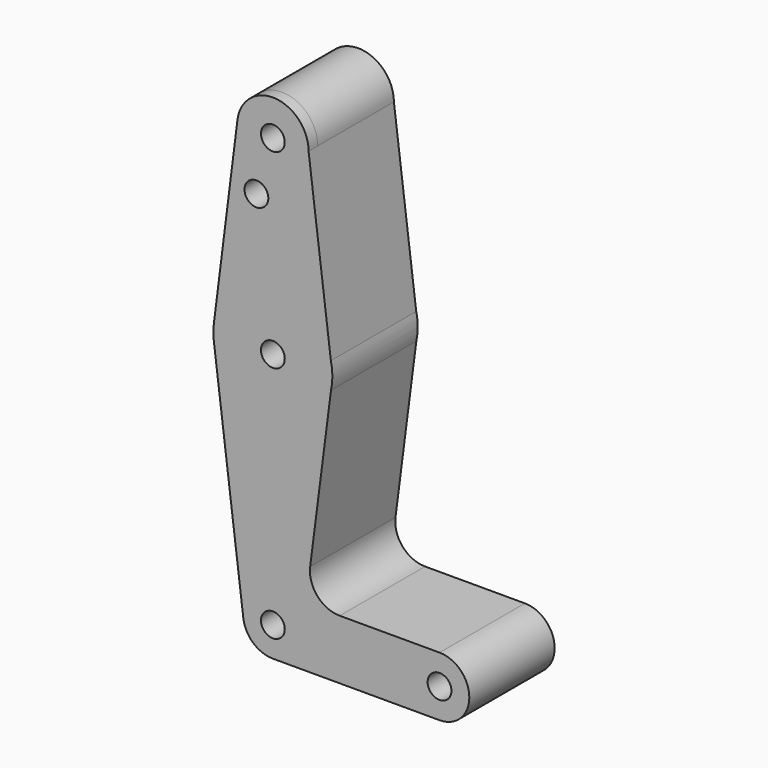
from build123d import *

# Parameters (mm, degrees)
F0_R        = 3.1712374005
F0_R_2      = 3.175
F1_DEPTH    = 3.048
F2_DEPTH    = 3.048
F3_DEPTH    = 3.048
F1_FACE_R   = 3.1712374005
F1_FACE_R_2 = 3.175
F4_DEPTH    = 25.4


with BuildPart() as f1:
    # F0 (on Front) → F1 (new body)
    with BuildSketch(Plane.XZ):
        with BuildLine():
            ThreePointArc((-9.4917820271, 59.0115925485), (-0.3977443851, 48.7001057545), (9.525, 58.2167976379))
            ThreePointArc((9.525, 58.2167976379), (0.7965401292, 67.7084333675), (-9.3917766557, 59.8042976379))
            Line((-9.3917766557, 59.8042976379), (-9.4917820271, 59.0115925485))
        make_face()
        with Locations((0, 58.2167976379)):
            Circle(F0_R, mode=Mode.SUBTRACT)
        with BuildLine():
            Line((15.4734514542, 10.9647442403), (9.525, 58.2167976379))
            ThreePointArc((9.525, 58.2167976379), (-0.3977443851, 48.7001057545), (-9.4917820271, 59.0115925485))
            Line((-9.4917820271, 59.0115925485), (-15.7501580655, 9.4037918285))
            ThreePointArc((-15.7501580655, 9.4037918285), (-0.7926441479, 23.2719967933), (15.4734514542, 10.9647442403))
        make_face()
        with Locations((-4.3875967011, 43.6775095756)):
            Circle(F0_R_2, mode=Mode.SUBTRACT)
        with BuildLine():
            Line((-9.4917820271, 59.0115925485), (-9.3917766557, 59.8042976379))
            ThreePointArc((-9.3917766557, 59.8042976379), (-9.4500948393, 59.4089941523), (-9.4917820271, 59.0115925485))
        make_face()
        with BuildLine():
            Line((15.8700148845, 7.8146073471), (15.4734514542, 10.9647442403))
            ThreePointArc((15.4734514542, 10.9647442403), (-0.7926441479, 23.2719967933), (-15.7501580655, 9.4037918285))
            ThreePointArc((-15.7501580655, 9.4037918285), (-15.8730177398, 7.6676618089), (-15.8050828508, 5.9285163879))
            Line((-15.8050828508, 5.9285163879), (-15.6809380298, 4.942164836))
            ThreePointArc((-15.6809380298, 4.942164836), (-0.466737478, -8.4513396543), (15.5083792346, 4.0247778098))
            ThreePointArc((15.5083792346, 4.0247778098), (15.7830786818, 5.7109100903), (15.875, 7.4167976379))
            ThreePointArc((15.875, 7.4167976379), (15.8737536722, 7.6157181095), (15.8700148845, 7.8146073471))
        make_face()
        with Locations((0, 7.4167976379)):
            Circle(F0_R_2, mode=Mode.SUBTRACT)
        with BuildLine():
            ThreePointArc((15.8700148845, 7.8146073471), (15.7506844659, 9.3996147894), (15.4734514542, 10.9647442403))
            Line((15.4734514542, 10.9647442403), (15.8700148845, 7.8146073471))
        make_face()
        with BuildLine():
            Line((-15.6809380298, 4.942164836), (-15.8050828508, 5.9285163879))
            ThreePointArc((-15.8050828508, 5.9285163879), (-15.7507333185, 5.43436859), (-15.6809380298, 4.942164836))
        make_face()
        with BuildLine():
            ThreePointArc((15.5083792346, 4.0247778098), (-0.466737478, -8.4513396543), (-15.6809380298, 4.942164836))
            Line((-15.6809380298, 4.942164836), (-7.8753666592, -57.074416886))
            ThreePointArc((-7.8753666592, -57.074416886), (-0.4965799997, -48.1612509261), (7.9375, -56.0832023621))
            ThreePointArc((7.9375, -56.0832023621), (5.6126600757, -61.6958624377), (0, -64.0207023621))
            Line((0, -64.0207023621), (44.45, -64.0207023621))
            ThreePointArc((44.45, -64.0207023621), (36.5125, -56.0832023621), (44.45, -48.1457023621))
            Line((44.45, -48.1457023621), (17.8308056521, -48.1457023621))
            ThreePointArc((17.8308056521, -48.1457023621), (11.8610133248, -45.4459556386), (9.9456918977, -39.1802875471))
            Line((9.9456918977, -39.1802875471), (15.5083792346, 4.0247778098))
        make_face()
        with BuildLine():
            ThreePointArc((7.9375, -56.0832023621), (-0.4965799997, -48.1612509261), (-7.8753666592, -57.074416886))
            ThreePointArc((-7.8753666592, -57.074416886), (-5.2505304954, -62.0360030279), (0, -64.0207023621))
            ThreePointArc((0, -64.0207023621), (5.6126600757, -61.6958624377), (7.9375, -56.0832023621))
        make_face()
        with Locations((0, -56.0832023621)):
            Circle(F0_R_2, mode=Mode.SUBTRACT)
        with BuildLine():
            ThreePointArc((44.45, -48.1457023621), (36.5125, -56.0832023621), (44.45, -64.0207023621))
            ThreePointArc((44.45, -64.0207023621), (50.0626600757, -61.6958624377), (52.3875, -56.0832023621))
            ThreePointArc((52.3875, -56.0832023621), (50.0626600757, -50.4705422864), (44.45, -48.1457023621))
        make_face()
        with Locations((44.45, -56.0832023621)):
            Circle(F0_R_2, mode=Mode.SUBTRACT)
    extrude(amount=F1_DEPTH)

    # F0 (on Front) → F2 (join)
    with BuildSketch(Plane.XZ):
        with BuildLine():
            ThreePointArc((-9.4917820271, 59.0115925485), (-0.3977443851, 48.7001057545), (9.525, 58.2167976379))
            ThreePointArc((9.525, 58.2167976379), (0.7965401292, 67.7084333675), (-9.3917766557, 59.8042976379))
            Line((-9.3917766557, 59.8042976379), (-9.4917820271, 59.0115925485))
        make_face()
        with Locations((0, 58.2167976379)):
            Circle(F0_R, mode=Mode.SUBTRACT)
        with BuildLine():
            Line((15.4734514542, 10.9647442403), (9.525, 58.2167976379))
            ThreePointArc((9.525, 58.2167976379), (-0.3977443851, 48.7001057545), (-9.4917820271, 59.0115925485))
            Line((-9.4917820271, 59.0115925485), (-15.7501580655, 9.4037918285))
            ThreePointArc((-15.7501580655, 9.4037918285), (-0.7926441479, 23.2719967933), (15.4734514542, 10.9647442403))
        make_face()
        with Locations((-4.3875967011, 43.6775095756)):
            Circle(F0_R_2, mode=Mode.SUBTRACT)
        with BuildLine():
            Line((-9.4917820271, 59.0115925485), (-9.3917766557, 59.8042976379))
            ThreePointArc((-9.3917766557, 59.8042976379), (-9.4500948393, 59.4089941523), (-9.4917820271, 59.0115925485))
        make_face()
        with BuildLine():
            Line((15.8700148845, 7.8146073471), (15.4734514542, 10.9647442403))
            ThreePointArc((15.4734514542, 10.9647442403), (-0.7926441479, 23.2719967933), (-15.7501580655, 9.4037918285))
            ThreePointArc((-15.7501580655, 9.4037918285), (-15.8730177398, 7.6676618089), (-15.8050828508, 5.9285163879))
            Line((-15.8050828508, 5.9285163879), (-15.6809380298, 4.942164836))
            ThreePointArc((-15.6809380298, 4.942164836), (-0.466737478, -8.4513396543), (15.5083792346, 4.0247778098))
            ThreePointArc((15.5083792346, 4.0247778098), (15.7830786818, 5.7109100903), (15.875, 7.4167976379))
            ThreePointArc((15.875, 7.4167976379), (15.8737536722, 7.6157181095), (15.8700148845, 7.8146073471))
        make_face()
        with Locations((0, 7.4167976379)):
            Circle(F0_R_2, mode=Mode.SUBTRACT)
        with BuildLine():
            ThreePointArc((15.8700148845, 7.8146073471), (15.7506844659, 9.3996147894), (15.4734514542, 10.9647442403))
            Line((15.4734514542, 10.9647442403), (15.8700148845, 7.8146073471))
        make_face()
        with BuildLine():
            Line((-15.6809380298, 4.942164836), (-15.8050828508, 5.9285163879))
            ThreePointArc((-15.8050828508, 5.9285163879), (-15.7507333185, 5.43436859), (-15.6809380298, 4.942164836))
        make_face()
        with BuildLine():
            ThreePointArc((15.5083792346, 4.0247778098), (-0.466737478, -8.4513396543), (-15.6809380298, 4.942164836))
            Line((-15.6809380298, 4.942164836), (-7.8753666592, -57.074416886))
            ThreePointArc((-7.8753666592, -57.074416886), (-0.4965799997, -48.1612509261), (7.9375, -56.0832023621))
            ThreePointArc((7.9375, -56.0832023621), (5.6126600757, -61.6958624377), (0, -64.0207023621))
            Line((0, -64.0207023621), (44.45, -64.0207023621))
            ThreePointArc((44.45, -64.0207023621), (36.5125, -56.0832023621), (44.45, -48.1457023621))
            Line((44.45, -48.1457023621), (17.8308056521, -48.1457023621))
            ThreePointArc((17.8308056521, -48.1457023621), (11.8610133248, -45.4459556386), (9.9456918977, -39.1802875471))
            Line((9.9456918977, -39.1802875471), (15.5083792346, 4.0247778098))
        make_face()
        with BuildLine():
            ThreePointArc((7.9375, -56.0832023621), (-0.4965799997, -48.1612509261), (-7.8753666592, -57.074416886))
            ThreePointArc((-7.8753666592, -57.074416886), (-5.2505304954, -62.0360030279), (0, -64.0207023621))
            ThreePointArc((0, -64.0207023621), (5.6126600757, -61.6958624377), (7.9375, -56.0832023621))
        make_face()
        with Locations((0, -56.0832023621)):
            Circle(F0_R_2, mode=Mode.SUBTRACT)
        with BuildLine():
            ThreePointArc((44.45, -48.1457023621), (36.5125, -56.0832023621), (44.45, -64.0207023621))
            ThreePointArc((44.45, -64.0207023621), (50.0626600757, -61.6958624377), (52.3875, -56.0832023621))
            ThreePointArc((52.3875, -56.0832023621), (50.0626600757, -50.4705422864), (44.45, -48.1457023621))
        make_face()
        with Locations((44.45, -56.0832023621)):
            Circle(F0_R_2, mode=Mode.SUBTRACT)
    extrude(amount=F2_DEPTH)

    # F0 (on Front) → F3 (join)
    with BuildSketch(Plane.XZ):
        with BuildLine():
            ThreePointArc((-9.4917820271, 59.0115925485), (-0.3977443851, 48.7001057545), (9.525, 58.2167976379))
            ThreePointArc((9.525, 58.2167976379), (0.7965401292, 67.7084333675), (-9.3917766557, 59.8042976379))
            Line((-9.3917766557, 59.8042976379), (-9.4917820271, 59.0115925485))
        make_face()
        with Locations((0, 58.2167976379)):
            Circle(F0_R, mode=Mode.SUBTRACT)
        with BuildLine():
            Line((15.4734514542, 10.9647442403), (9.525, 58.2167976379))
            ThreePointArc((9.525, 58.2167976379), (-0.3977443851, 48.7001057545), (-9.4917820271, 59.0115925485))
            Line((-9.4917820271, 59.0115925485), (-15.7501580655, 9.4037918285))
            ThreePointArc((-15.7501580655, 9.4037918285), (-0.7926441479, 23.2719967933), (15.4734514542, 10.9647442403))
        make_face()
        with Locations((-4.3875967011, 43.6775095756)):
            Circle(F0_R_2, mode=Mode.SUBTRACT)
        with BuildLine():
            Line((-9.4917820271, 59.0115925485), (-9.3917766557, 59.8042976379))
            ThreePointArc((-9.3917766557, 59.8042976379), (-9.4500948393, 59.4089941523), (-9.4917820271, 59.0115925485))
        make_face()
        with BuildLine():
            Line((15.8700148845, 7.8146073471), (15.4734514542, 10.9647442403))
            ThreePointArc((15.4734514542, 10.9647442403), (-0.7926441479, 23.2719967933), (-15.7501580655, 9.4037918285))
            ThreePointArc((-15.7501580655, 9.4037918285), (-15.8730177398, 7.6676618089), (-15.8050828508, 5.9285163879))
            Line((-15.8050828508, 5.9285163879), (-15.6809380298, 4.942164836))
            ThreePointArc((-15.6809380298, 4.942164836), (-0.466737478, -8.4513396543), (15.5083792346, 4.0247778098))
            ThreePointArc((15.5083792346, 4.0247778098), (15.7830786818, 5.7109100903), (15.875, 7.4167976379))
            ThreePointArc((15.875, 7.4167976379), (15.8737536722, 7.6157181095), (15.8700148845, 7.8146073471))
        make_face()
        with Locations((0, 7.4167976379)):
            Circle(F0_R_2, mode=Mode.SUBTRACT)
        with BuildLine():
            ThreePointArc((15.8700148845, 7.8146073471), (15.7506844659, 9.3996147894), (15.4734514542, 10.9647442403))
            Line((15.4734514542, 10.9647442403), (15.8700148845, 7.8146073471))
        make_face()
        with BuildLine():
            Line((-15.6809380298, 4.942164836), (-15.8050828508, 5.9285163879))
            ThreePointArc((-15.8050828508, 5.9285163879), (-15.7507333185, 5.43436859), (-15.6809380298, 4.942164836))
        make_face()
        with BuildLine():
            ThreePointArc((15.5083792346, 4.0247778098), (-0.466737478, -8.4513396543), (-15.6809380298, 4.942164836))
            Line((-15.6809380298, 4.942164836), (-7.8753666592, -57.074416886))
            ThreePointArc((-7.8753666592, -57.074416886), (-0.4965799997, -48.1612509261), (7.9375, -56.0832023621))
            ThreePointArc((7.9375, -56.0832023621), (5.6126600757, -61.6958624377), (0, -64.0207023621))
            Line((0, -64.0207023621), (44.45, -64.0207023621))
            ThreePointArc((44.45, -64.0207023621), (36.5125, -56.0832023621), (44.45, -48.1457023621))
            Line((44.45, -48.1457023621), (17.8308056521, -48.1457023621))
            ThreePointArc((17.8308056521, -48.1457023621), (11.8610133248, -45.4459556386), (9.9456918977, -39.1802875471))
            Line((9.9456918977, -39.1802875471), (15.5083792346, 4.0247778098))
        make_face()
        with BuildLine():
            ThreePointArc((7.9375, -56.0832023621), (-0.4965799997, -48.1612509261), (-7.8753666592, -57.074416886))
            ThreePointArc((-7.8753666592, -57.074416886), (-5.2505304954, -62.0360030279), (0, -64.0207023621))
            ThreePointArc((0, -64.0207023621), (5.6126600757, -61.6958624377), (7.9375, -56.0832023621))
        make_face()
        with Locations((0, -56.0832023621)):
            Circle(F0_R_2, mode=Mode.SUBTRACT)
        with BuildLine():
            ThreePointArc((44.45, -48.1457023621), (36.5125, -56.0832023621), (44.45, -64.0207023621))
            ThreePointArc((44.45, -64.0207023621), (50.0626600757, -61.6958624377), (52.3875, -56.0832023621))
            ThreePointArc((52.3875, -56.0832023621), (50.0626600757, -50.4705422864), (44.45, -48.1457023621))
        make_face()
        with Locations((44.45, -56.0832023621)):
            Circle(F0_R_2, mode=Mode.SUBTRACT)
    extrude(amount=F3_DEPTH)

    # F0 (on Front) + F1_face (on face) → F4 (join)
    with BuildSketch(Plane.XZ):
        with BuildLine():
            ThreePointArc((-9.4917820271, 59.0115925485), (-0.3977443851, 48.7001057545), (9.525, 58.2167976379))
            ThreePointArc((9.525, 58.2167976379), (0.7965401292, 67.7084333675), (-9.3917766557, 59.8042976379))
            Line((-9.3917766557, 59.8042976379), (-9.4917820271, 59.0115925485))
        make_face()
        with Locations((0, 58.2167976379)):
            Circle(F0_R, mode=Mode.SUBTRACT)
        with BuildLine():
            Line((15.4734514542, 10.9647442403), (9.525, 58.2167976379))
            ThreePointArc((9.525, 58.2167976379), (-0.3977443851, 48.7001057545), (-9.4917820271, 59.0115925485))
            Line((-9.4917820271, 59.0115925485), (-15.7501580655, 9.4037918285))
            ThreePointArc((-15.7501580655, 9.4037918285), (-0.7926441479, 23.2719967933), (15.4734514542, 10.9647442403))
        make_face()
        with Locations((-4.3875967011, 43.6775095756)):
            Circle(F0_R_2, mode=Mode.SUBTRACT)
        with BuildLine():
            Line((-9.4917820271, 59.0115925485), (-9.3917766557, 59.8042976379))
            ThreePointArc((-9.3917766557, 59.8042976379), (-9.4500948393, 59.4089941523), (-9.4917820271, 59.0115925485))
        make_face()
        with BuildLine():
            Line((15.8700148845, 7.8146073471), (15.4734514542, 10.9647442403))
            ThreePointArc((15.4734514542, 10.9647442403), (-0.7926441479, 23.2719967933), (-15.7501580655, 9.4037918285))
            ThreePointArc((-15.7501580655, 9.4037918285), (-15.8730177398, 7.6676618089), (-15.8050828508, 5.9285163879))
            Line((-15.8050828508, 5.9285163879), (-15.6809380298, 4.942164836))
            ThreePointArc((-15.6809380298, 4.942164836), (-0.466737478, -8.4513396543), (15.5083792346, 4.0247778098))
            ThreePointArc((15.5083792346, 4.0247778098), (15.7830786818, 5.7109100903), (15.875, 7.4167976379))
            ThreePointArc((15.875, 7.4167976379), (15.8737536722, 7.6157181095), (15.8700148845, 7.8146073471))
        make_face()
        with Locations((0, 7.4167976379)):
            Circle(F0_R_2, mode=Mode.SUBTRACT)
        with BuildLine():
            ThreePointArc((15.8700148845, 7.8146073471), (15.7506844659, 9.3996147894), (15.4734514542, 10.9647442403))
            Line((15.4734514542, 10.9647442403), (15.8700148845, 7.8146073471))
        make_face()
        with BuildLine():
            Line((-15.6809380298, 4.942164836), (-15.8050828508, 5.9285163879))
            ThreePointArc((-15.8050828508, 5.9285163879), (-15.7507333185, 5.43436859), (-15.6809380298, 4.942164836))
        make_face()
        with BuildLine():
            ThreePointArc((15.5083792346, 4.0247778098), (-0.466737478, -8.4513396543), (-15.6809380298, 4.942164836))
            Line((-15.6809380298, 4.942164836), (-7.8753666592, -57.074416886))
            ThreePointArc((-7.8753666592, -57.074416886), (-0.4965799997, -48.1612509261), (7.9375, -56.0832023621))
            ThreePointArc((7.9375, -56.0832023621), (5.6126600757, -61.6958624377), (0, -64.0207023621))
            Line((0, -64.0207023621), (44.45, -64.0207023621))
            ThreePointArc((44.45, -64.0207023621), (36.5125, -56.0832023621), (44.45, -48.1457023621))
            Line((44.45, -48.1457023621), (17.8308056521, -48.1457023621))
            ThreePointArc((17.8308056521, -48.1457023621), (11.8610133248, -45.4459556386), (9.9456918977, -39.1802875471))
            Line((9.9456918977, -39.1802875471), (15.5083792346, 4.0247778098))
        make_face()
        with BuildLine():
            ThreePointArc((7.9375, -56.0832023621), (-0.4965799997, -48.1612509261), (-7.8753666592, -57.074416886))
            ThreePointArc((-7.8753666592, -57.074416886), (-5.2505304954, -62.0360030279), (0, -64.0207023621))
            ThreePointArc((0, -64.0207023621), (5.6126600757, -61.6958624377), (7.9375, -56.0832023621))
        make_face()
        with Locations((0, -56.0832023621)):
            Circle(F0_R_2, mode=Mode.SUBTRACT)
        with BuildLine():
            ThreePointArc((44.45, -48.1457023621), (36.5125, -56.0832023621), (44.45, -64.0207023621))
            ThreePointArc((44.45, -64.0207023621), (50.0626600757, -61.6958624377), (52.3875, -56.0832023621))
            ThreePointArc((52.3875, -56.0832023621), (50.0626600757, -50.4705422864), (44.45, -48.1457023621))
        make_face()
        with Locations((44.45, -56.0832023621)):
            Circle(F0_R_2, mode=Mode.SUBTRACT)
    with BuildSketch(Plane(origin=(5.2109211205, -3.048, -7.8157701238), x_dir=(1, 0, 0), z_dir=(0, -1, 0))):
        with BuildLine():
            ThreePointArc((4.3140788795, 66.0325677618), (-4.8131767354, 75.5492596452), (-14.7027031477, 66.8273626723))
            Line((-14.7027031477, 66.8273626723), (-20.961079186, 17.2195619523))
            ThreePointArc((-20.961079186, 17.2195619523), (-21.0840109046, 14.9863042704), (-20.8918591504, 12.7579349598))
            Line((-20.8918591504, 12.7579349598), (-13.0862877798, -49.2586467622))
            ThreePointArc((-13.0862877798, -49.2586467622), (-10.4614516159, -54.220232904), (-5.2109211205, -56.2049322382))
            Line((-5.2109211205, -56.2049322382), (39.2390788795, -56.2049322382))
            ThreePointArc((39.2390788795, -56.2049322382), (47.1765788795, -48.2674322382), (39.2390788795, -40.3299322382))
            Line((39.2390788795, -40.3299322382), (12.6198845315, -40.3299322382))
            ThreePointArc((12.6198845315, -40.3299322382), (6.6500922043, -37.6301855148), (4.7347707772, -31.3645174233))
            Line((4.7347707772, -31.3645174233), (10.2974581141, 11.8405479336))
            ThreePointArc((10.2974581141, 11.8405479336), (10.6638778301, 15.3124631758), (10.2625303337, 18.7805143641))
            Line((10.2625303337, 18.7805143641), (4.3140788795, 66.0325677618))
        make_face()
        with Locations((-5.2109211205, 66.0325677618)):
            Circle(F1_FACE_R, mode=Mode.SUBTRACT)
        with Locations((-9.5985178216, 51.4932796995)):
            Circle(F1_FACE_R_2, mode=Mode.SUBTRACT)
        with Locations((-5.2109211205, 15.2325677618)):
            Circle(F1_FACE_R_2, mode=Mode.SUBTRACT)
        with Locations((-5.2109211205, -48.2674322382)):
            Circle(F1_FACE_R_2, mode=Mode.SUBTRACT)
        with Locations((39.2390788795, -48.2674322382)):
            Circle(F1_FACE_R_2, mode=Mode.SUBTRACT)
    extrude(amount=F4_DEPTH)


solid = f1.part
